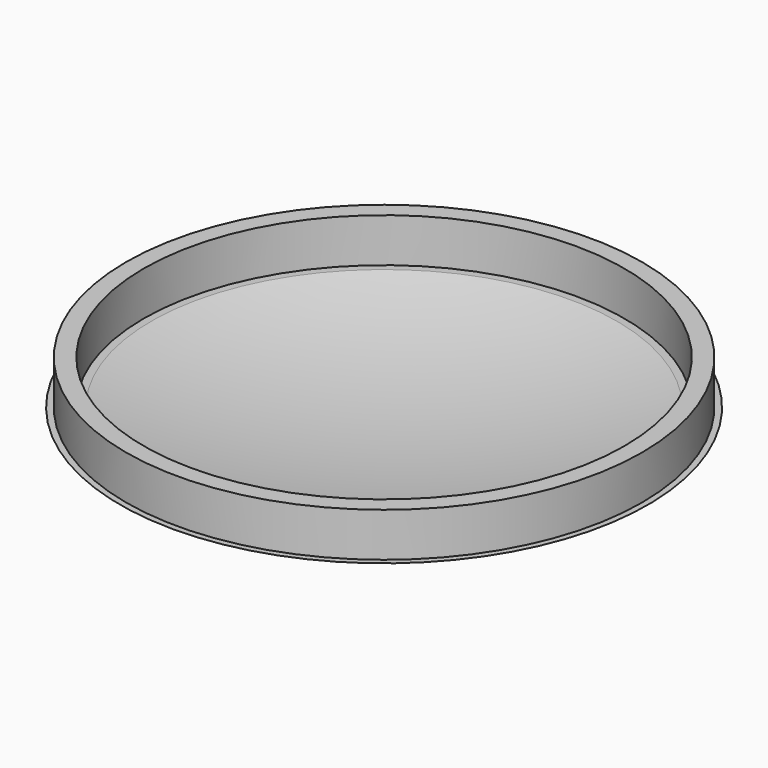
from build123d import *

# Parameters (mm, degrees)
F3_T     = -1.27
F4_W     = 834.6531093121
F4_H     = 674.1969883442
F5_DEPTH = 508
F0_R     = 37.211
F0_R_2   = 34.671
F6_DEPTH = 6.35


with BuildPart() as f2:
    # F1 (on Front) → F2 (revolve)
    with BuildSketch(Plane.XZ):
        with BuildLine():
            ThreePointArc((127, 121.158), (0, 248.158), (-127, 121.158))
            Line((-127, 121.158), (127, 121.158))
        make_face()
    revolve(axis=Axis((0, 0, 121.158), (1, 0, 0)))

    # F3 (hollow: no face is removed)
    offset(amount=F3_T, mode=Mode.SUBTRACT)

    # F4 (on Top) → F5 (cut)
    with BuildSketch(Plane.XY):
        with Locations((43.5875803232, -34.0506881475)):
            Rectangle(F4_W, F4_H)
    extrude(amount=F5_DEPTH, mode=Mode.SUBTRACT)

    # F0 (on Top) → F6 (join)
    with BuildSketch(Plane.XY):
        Circle(F0_R)
        Circle(F0_R_2, mode=Mode.SUBTRACT)
    extrude(amount=F6_DEPTH)


solid = f2.part
